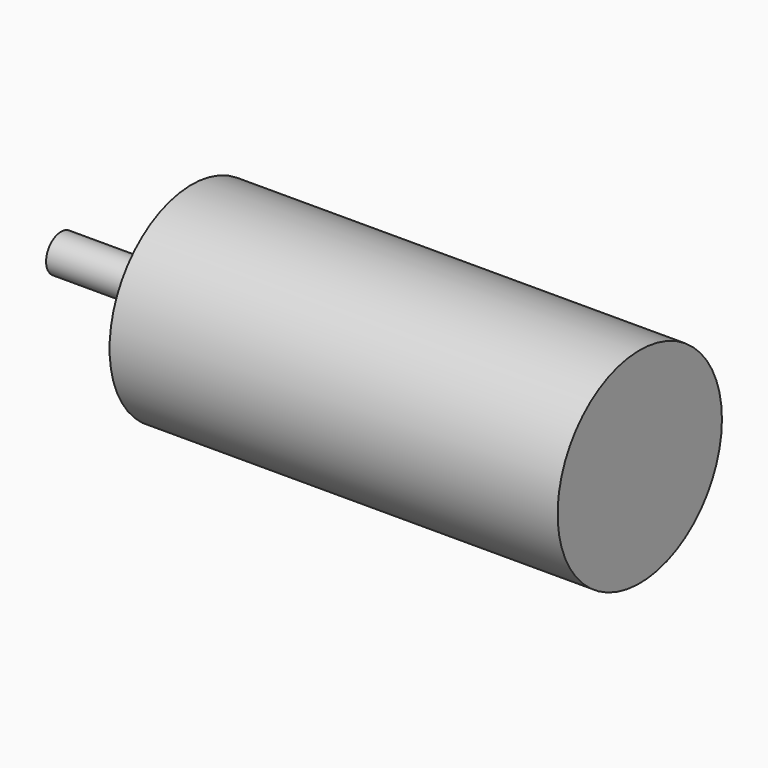
from build123d import *

# Parameters (mm, degrees)
F0_R     = 11
F1_DEPTH = 48
F3_DEPTH = 2
F4_R     = 2
F5_DEPTH = 12
F6_R     = 1
F7_DEPTH = 6


with BuildPart() as f1:
    # F0 (on Right) → F1 (new body)
    with BuildSketch(Plane.YZ):
        Circle(F0_R)
    extrude(amount=F1_DEPTH)

    # F2 (on face) → F3 (join)
    with BuildSketch(Plane(origin=(0, 0, 0), x_dir=(0, -1, 0), z_dir=(-1, 0, 0))):
        with BuildLine():
            Line((-6, 3.605551), (-6, -3.605551))
            ThreePointArc((-6, -3.605551), (0, -7), (6, -3.605551))
            Line((6, -3.605551), (6, 3.605551))
            ThreePointArc((6, 3.605551), (0, 7), (-6, 3.605551))
        make_face()
    extrude(amount=F3_DEPTH)

    # F4 (on face) → F5 (join)
    with BuildSketch(Plane(origin=(-2, 0, 0), x_dir=(0, -1, 0), z_dir=(-1, 0, 0))):
        Circle(F4_R)
    extrude(amount=F5_DEPTH)

    # F6 (on face) → F7 (cut)
    with BuildSketch(Plane(origin=(0, 0, 0), x_dir=(0, -1, 0), z_dir=(-1, 0, 0))):
        with Locations((6.363961, 6.363961)):
            Circle(F6_R)
        with Locations((6.363961, -6.363961)):
            Circle(F6_R)
        with Locations((-6.363961, -6.363961)):
            Circle(F6_R)
        with Locations((-6.363961, 6.363961)):
            Circle(F6_R)
    extrude(amount=-F7_DEPTH, mode=Mode.SUBTRACT)


solid = f1.part
